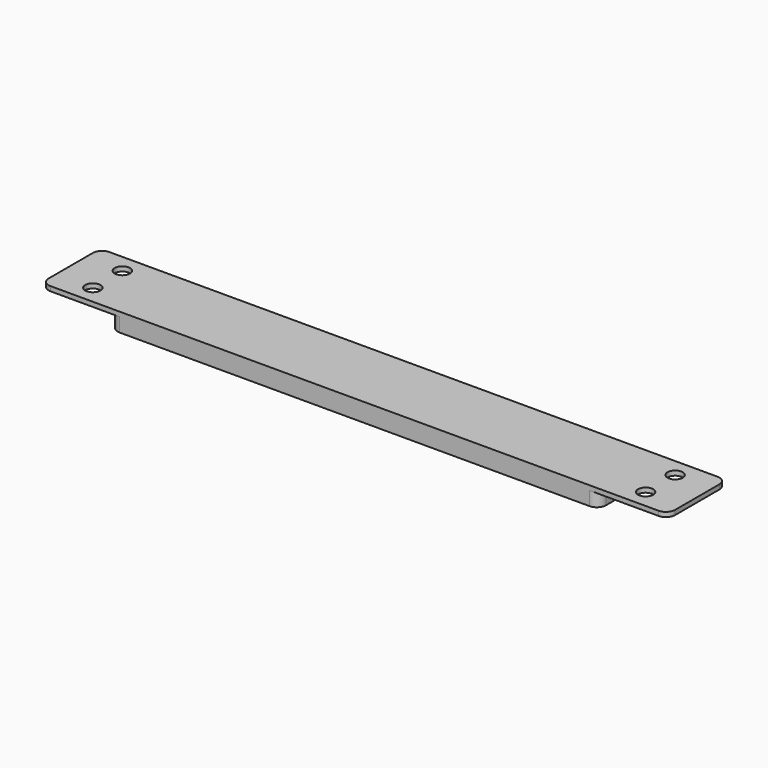
from build123d import *

# Parameters (mm, degrees)
SKETCH_W     = 136
SKETCH_H     = 16
SKETCH_R     = 1.65
PAD_DEPTH    = 1
SKETCH001_W  = 106
SKETCH001_H  = 16
PAD001_DEPTH = 3
FILLET_R     = 2


with BuildPart() as part:
    # Sketch → Pad (new body)
    with BuildSketch(Plane.XY):
        Rectangle(SKETCH_W, SKETCH_H)
        with Locations((-60, 4)):
            Circle(SKETCH_R, mode=Mode.SUBTRACT)
        with Locations((-60, -4)):
            Circle(SKETCH_R, mode=Mode.SUBTRACT)
        with Locations((60, 4)):
            Circle(SKETCH_R, mode=Mode.SUBTRACT)
        with Locations((60, -4)):
            Circle(SKETCH_R, mode=Mode.SUBTRACT)
    extrude(amount=PAD_DEPTH)

    # Sketch001 → Pad001 (join)
    with BuildSketch(Plane.XY):
        Rectangle(SKETCH001_W, SKETCH001_H)
    extrude(amount=-PAD001_DEPTH)

    # Fillet
    fillet_edges = [part.edges().sort_by_distance(p)[0] for p in [
        (53, 8, -1.5),
        (53, -8, -1.5),
        (-53, -8, -1.5),
        (-53, 8, -1.5),
        (-68, 8, 0.5),
        (-68, -8, 0.5),
        (68, -8, 0.5),
        (68, 8, 0.5),
    ]]
    fillet(fillet_edges, radius=FILLET_R)


solid = part.part
